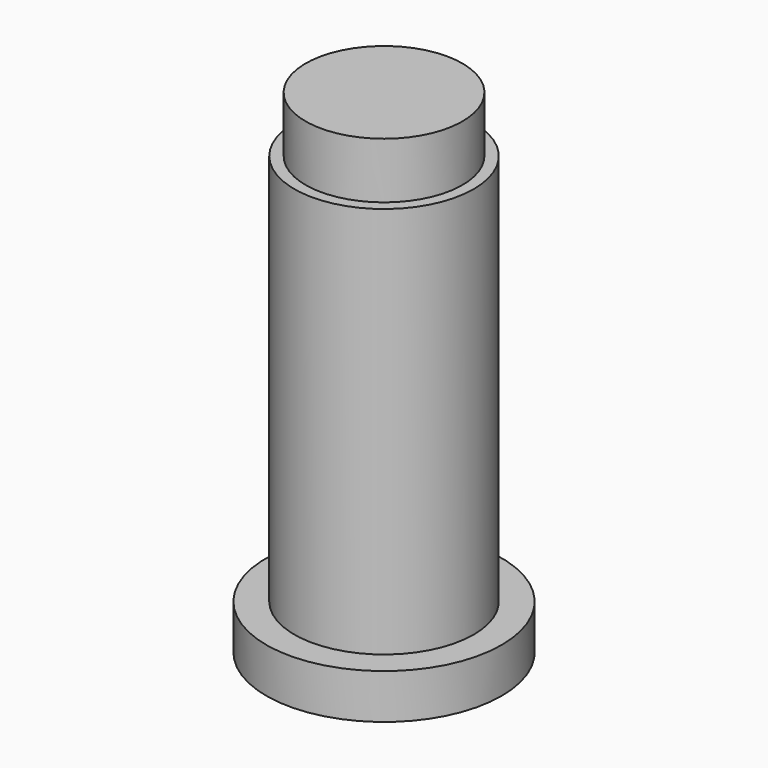
from build123d import *

# Parameters (mm, degrees)
F0_R     = 10.5
F1_DEPTH = 4
F2_R     = 8
F3_DEPTH = 39
F4_W     = 7
F4_H     = 5
F6_R     = 3.5
F7_DEPTH = 2


with BuildPart() as f1:
    # F0 (on Top) → F1 (new body)
    with BuildSketch(Plane.XY):
        Circle(F0_R)
    extrude(amount=F1_DEPTH)

    # F2 (on Top) → F3 (join)
    with BuildSketch(Plane.XY):
        Circle(F2_R)
    extrude(amount=F3_DEPTH)

    # F4 (on Right) → F5 (revolve)
    with BuildSketch(Plane.YZ):
        with Locations((3.5, 41.5)):
            Rectangle(F4_W, F4_H)
    revolve(axis=Axis((0, 0, 41.5), (0, 0, -1)))

    # F6 (on face) → F7 (cut)
    with BuildSketch(Plane(origin=(0, 0, 0), x_dir=(1, 0, 0), z_dir=(0, 0, -1))):
        Circle(F6_R)
    extrude(amount=-F7_DEPTH, mode=Mode.SUBTRACT)


solid = f1.part
